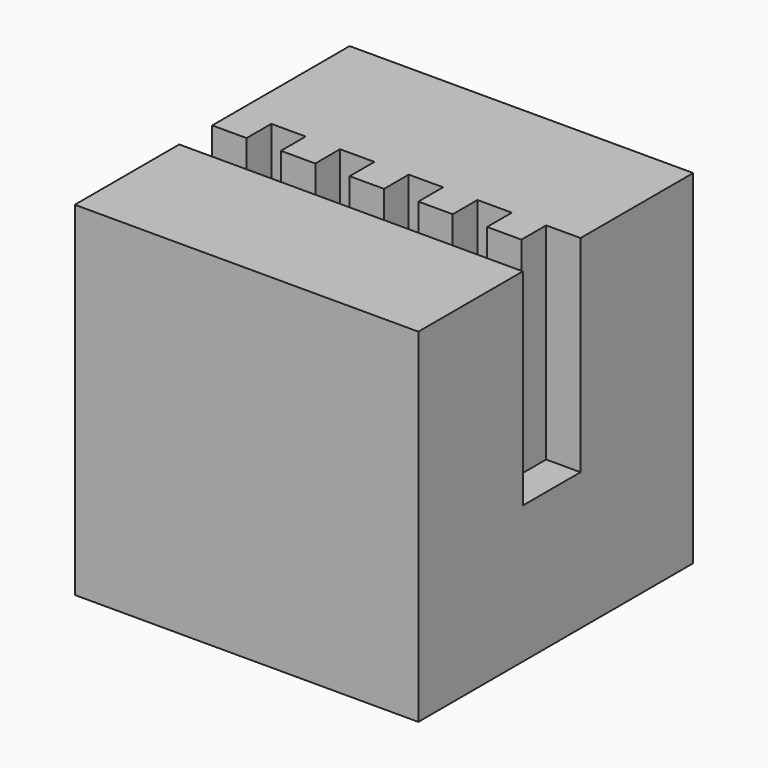
from build123d import *

# Parameters (mm, degrees)
F0_W     = 10
F0_H     = 10
F1_DEPTH = 10
F3_DEPTH = 6


with BuildPart() as f1:
    # F0 (on Top) → F1 (new body)
    with BuildSketch(Plane.XY):
        Rectangle(F0_W, F0_H)
    extrude(amount=F1_DEPTH)

    # F2 (on face) → F3 (cut)
    with BuildSketch(Plane.XY.offset(10)):
        Polygon((-4, 0), (-5, 0), (-5, -1.2), (5, -1.2), (5, 0), (5, 0.9), (4, 0.9), (4, 0), (3, 0), (3, 0.9), (2, 0.9), (2, 0), (1, 0), (1, 0.9), (0, 0.9), (0, 0), (-1, 0), (-1, 0.9), (-2, 0.9), (-2, 0), (-3, 0), (-3, 0.9), (-4, 0.9), align=None)
    extrude(amount=-F3_DEPTH, mode=Mode.SUBTRACT)


solid = f1.part
